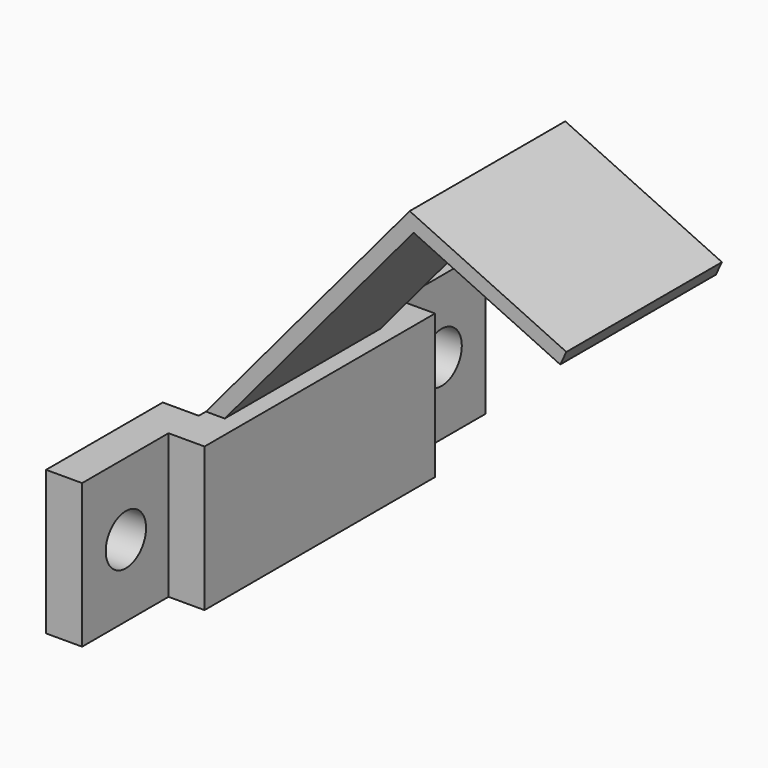
from build123d import *

# Parameters (mm, degrees)
F1_DEPTH = 10
F2_DEPTH = 6.75
F0_W     = 2.5
F0_H     = 10
F3_DEPTH = 17.5
F4_DEPTH = 7.375
F5_R     = 1.75
F6_DEPTH = 5


with BuildPart() as f1:
    # F0 (on Front) → F1 (new body, symmetric)
    with BuildSketch(Plane.XZ):
        Polygon((1.25, -5), (1.25, 5), (0.055407, 5), (-1.25, 5), (-1.25, -5), align=None)
    extrude(amount=F1_DEPTH, both=True)

    # F0 (on Front) → F2 (join, symmetric)
    with BuildSketch(Plane.XZ):
        Polygon((-1.25, 5), (0.055407, 5), (13.164144, 20.622384), (23.344403, 15.875251), (23.767021, 16.781559), (12.891327, 21.852978), align=None)
    extrude(amount=F2_DEPTH, both=True)

    # F0 (on Front) → F3 (join, symmetric)
    with BuildSketch(Plane.XZ):
        with Locations((-2.5, 0)):
            Rectangle(F0_W, F0_H)
    extrude(amount=F3_DEPTH, both=True)

    # F0 (on Front) → F4 (cut, symmetric)
    with BuildSketch(Plane.XZ):
        with Locations((-2.5, 0)):
            Rectangle(F0_W, F0_H)
    extrude(amount=F4_DEPTH, both=True, mode=Mode.SUBTRACT)

    # F5 (on Right) → F6 (cut, symmetric)
    with BuildSketch(Plane.YZ):
        with Locations((-13.7, 0)):
            Circle(F5_R)
        with Locations((13.7, 0)):
            Circle(F5_R)
    extrude(amount=F6_DEPTH, both=True, mode=Mode.SUBTRACT)


solid = f1.part
